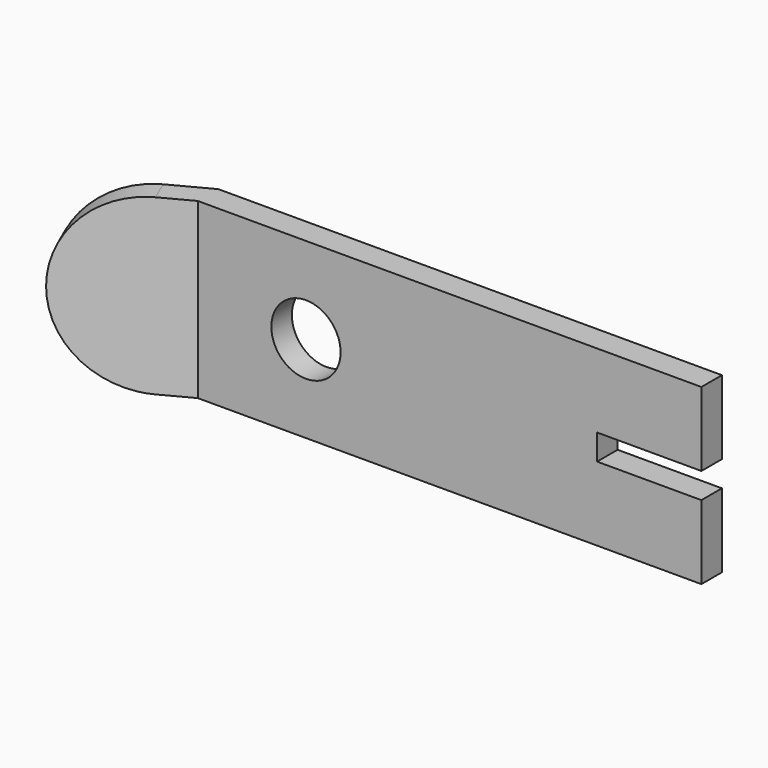
from build123d import *

# Parameters (mm, degrees)
F0_R     = 0.405
F1_DEPTH = 0.3
F3_DEPTH = 2.03
F4_R     = 1.01397


with BuildPart() as f1:
    # F0 (on Front) → F1 (new body)
    with BuildSketch(Plane.XZ):
        Polygon((0, 2.03), (0, 0), (5.89, 0), (5.89, 0.865), (4.67, 0.865), (4.67, 1.165), (5.89, 1.165), (5.89, 2.03), align=None)
        with Locations((1.265, 1.015)):
            Circle(F0_R, mode=Mode.SUBTRACT)
    extrude(amount=F1_DEPTH)

    # F2 (on face) → F3 (join)
    with BuildSketch(Plane.XY.offset(2.03)):
        Polygon((0, -0.3), (0, 0), (-1.351321, -0.717518), (-1.245335, -0.961242), align=None)
    extrude(amount=-F3_DEPTH)

    # F4
    f4_edges = [f1.edges().sort_by_distance(p)[0] for p in [
        (-1.298328, -0.83938, 0),
        (-1.298328, -0.83938, 2.03),
    ]]
    fillet(f4_edges, radius=F4_R)


solid = f1.part
